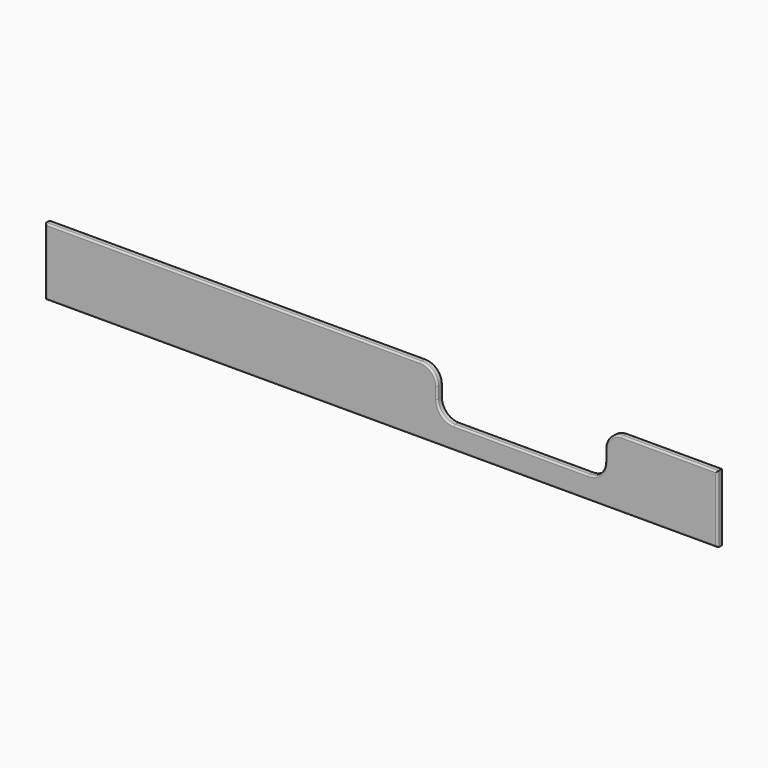
from build123d import *

# Parameters (mm, degrees)
F1_DEPTH = 12
F3_R     = 3


with BuildPart() as f1:
    # F0 (on Front) → F1 (new body)
    with BuildSketch(Plane.XZ):
        with BuildLine():
            Line((148.286143, 80), (-521.713857, 80))
            Line((-521.713857, 80), (-521.713857, -40))
            Line((-521.713857, -40), (678.286143, -40))
            Line((678.286143, -40), (678.286143, 80))
            Line((678.286143, 80), (508.286143, 80))
            ThreePointArc((508.286143, 80), (487.072939, 71.213203), (478.286143, 50))
            Line((478.286143, 50), (478.286143, 30))
            ThreePointArc((478.286143, 30), (469.499346, 8.786797), (448.286143, 0))
            Line((448.286143, 0), (208.286143, 0))
            ThreePointArc((208.286143, 0), (187.072939, 8.786797), (178.286143, 30))
            Line((178.286143, 30), (178.286143, 50))
            ThreePointArc((178.286143, 50), (169.499346, 71.213203), (148.286143, 80))
        make_face()
    extrude(amount=F1_DEPTH)

    # F3
    f3_edges = [f1.edges().sort_by_distance(p)[0] for p in [
        (-186.713857, 0, 80),
        (-521.713857, 0, 20),
        (78.286143, 0, -40),
        (678.286143, 0, 20),
        (593.286143, 0, 80),
        (487.072939, 0, 71.213203),
        (478.286143, 0, 40),
        (469.499346, 0, 8.786797),
        (328.286143, 0, 0),
        (187.072939, 0, 8.786797),
        (178.286143, 0, 40),
        (169.499346, 0, 71.213203),
        (-186.713857, -12, 80),
        (-521.713857, -12, 20),
        (78.286143, -12, -40),
        (678.286143, -12, 20),
        (593.286143, -12, 80),
        (487.072939, -12, 71.213203),
        (478.286143, -12, 40),
        (469.499346, -12, 8.786797),
        (328.286143, -12, 0),
        (187.072939, -12, 8.786797),
        (178.286143, -12, 40),
        (169.499346, -12, 71.213203),
    ]]
    fillet(f3_edges, radius=F3_R)


solid = f1.part
